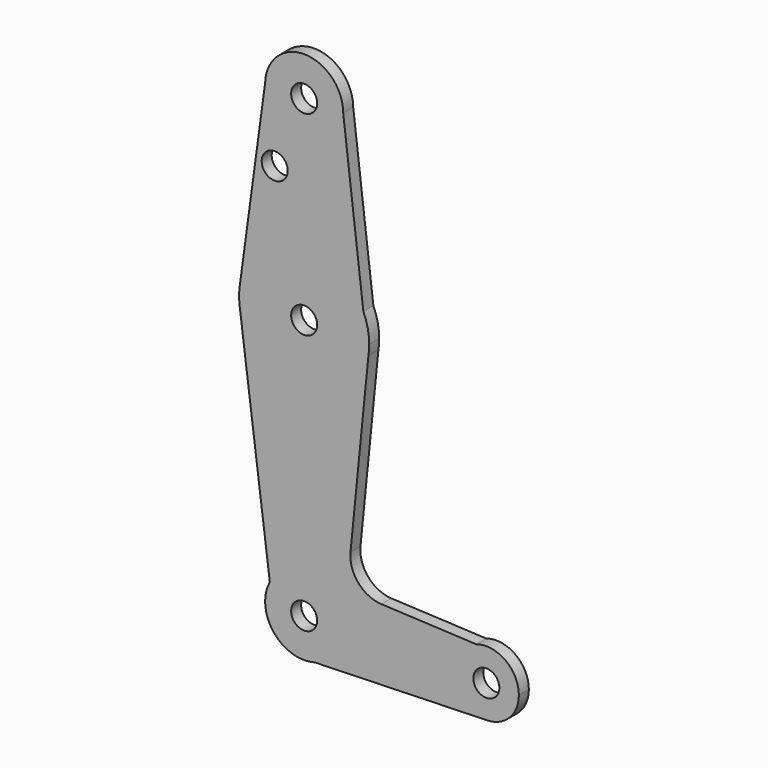
from build123d import *

# Parameters (mm, degrees)
F0_R     = 3.175
F1_DEPTH = 3.048


with BuildPart() as f1:
    # F0 (on Front) → F1 (new body)
    with BuildSketch(Plane.XZ):
        with BuildLine():
            ThreePointArc((2.590182, -9.166056), (7.595957, -5.746918), (9.525, 0))
            ThreePointArc((9.525, 0), (2.335462, 9.234243), (-8.379723, 4.52834))
            ThreePointArc((-8.379723, 4.52834), (-7.433964, -5.954982), (2.590182, -9.166056))
        make_face()
        Circle(F0_R, mode=Mode.SUBTRACT)
        with BuildLine():
            ThreePointArc((-8.379723, 4.52834), (2.335462, 9.234243), (9.525, 0))
            ThreePointArc((9.525, 0), (7.595957, -5.746918), (2.590182, -9.166056))
            Line((2.590182, -9.166056), (44.682216, -7.934102))
            ThreePointArc((44.682216, -7.934102), (36.629742, -1.359217), (41.991463, 7.547152))
            Line((41.991463, 7.547152), (18.846234, 8.643203))
            ThreePointArc((18.846234, 8.643203), (13.202837, 11.391068), (11.311616, 17.376214))
            Line((11.311616, 17.376214), (15.678595, 61.010567))
            ThreePointArc((15.678595, 61.010567), (-0.228883, 47.62665), (-15.743854, 61.463658))
            Line((-15.743854, 61.463658), (-8.379723, 4.52834))
        make_face()
        with BuildLine():
            ThreePointArc((-15.73063, 65.636094), (-15.87492, 63.550312), (-15.743854, 61.463658))
            ThreePointArc((-15.743854, 61.463658), (-0.228883, 47.62665), (15.678595, 61.010567))
            ThreePointArc((15.678595, 61.010567), (15.825823, 62.251416), (15.875, 63.5))
            ThreePointArc((15.875, 63.5), (15.514336, 66.864671), (14.448731, 70.076458))
            ThreePointArc((14.448731, 70.076458), (-2.31085, 79.20591), (-15.73063, 65.636094))
        make_face()
        with Locations((0, 63.5)):
            Circle(F0_R, mode=Mode.SUBTRACT)
        with BuildLine():
            ThreePointArc((41.991463, 7.547152), (36.629742, -1.359217), (44.682216, -7.934102))
            ThreePointArc((44.682216, -7.934102), (50.144169, -5.52995), (52.3875, 0))
            ThreePointArc((52.3875, 0), (49.113114, 6.423338), (41.991463, 7.547152))
        make_face()
        with Locations((44.45, 0)):
            Circle(F0_R, mode=Mode.SUBTRACT)
        with BuildLine():
            Line((-9.522191, 111.356301), (-15.73063, 65.636094))
            ThreePointArc((-15.73063, 65.636094), (-2.31085, 79.20591), (14.448731, 70.076458))
            Line((14.448731, 70.076458), (9.525, 111.125))
            ThreePointArc((9.525, 111.125), (-0.115659, 101.600702), (-9.522191, 111.356301))
        make_face()
        with Locations((-7.18182, 94.297133)):
            Circle(F0_R, mode=Mode.SUBTRACT)
        with BuildLine():
            ThreePointArc((9.525, 111.125), (0.115659, 120.649298), (-9.522191, 111.356301))
            ThreePointArc((-9.522191, 111.356301), (-0.115659, 101.600702), (9.525, 111.125))
        make_face()
        with Locations((0, 111.125)):
            Circle(F0_R, mode=Mode.SUBTRACT)
    extrude(amount=F1_DEPTH)


solid = f1.part
